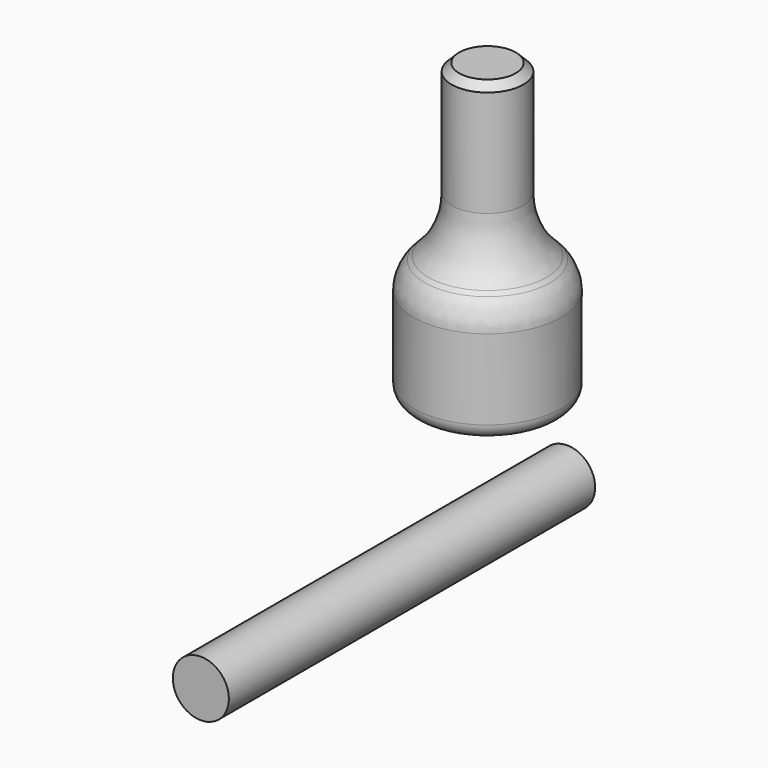
from build123d import *

# Parameters (mm, degrees)
F0_R     = 49.4600164877
F1_DEPTH = 100.0064834952
F2_SIZE  = 25.4
F3_R     = 25.559552511
F4_DEPTH = 98.5232293606
F5_R     = 52.9991248182
F6_SIZE  = 5.08
F7_R     = 10.16
F8_R     = 18.8176208756
F9_DEPTH = 307.4226379395


with BuildPart() as f1:
    # F0 (on Top) → F1 (new body)
    with BuildSketch(Plane.XY):
        with Locations((0, 7.3633268476)):
            Circle(F0_R)
    extrude(amount=F1_DEPTH)

    # F2
    f2_edges = [f1.edges().sort_by_distance(p)[0] for p in [
        (-49.460016, 7.363327, 100.006483),
    ]]
    chamfer(f2_edges, length=F2_SIZE)

    # F3
    f3_edges = [f1.edges().sort_by_distance(p)[0] for p in [
        (-49.460016, 7.363327, 74.606483),
    ]]
    fillet(f3_edges, radius=F3_R)

    # F4 (add): a face of the model
    f4_faces = [f1.faces().sort_by_distance(p)[0] for p in [
        (0, 7.3633268476, 100.0064834952),
    ]]
    extrude(f4_faces, amount=F4_DEPTH)

    # F5
    f5_edges = [f1.edges().sort_by_distance(p)[0] for p in [
        (-24.060016, 7.363327, 100.006483),
    ]]
    fillet(f5_edges, radius=F5_R)

    # F6
    f6_edges = [f1.edges().sort_by_distance(p)[0] for p in [
        (-24.060016, 7.363327, 198.529713),
    ]]
    chamfer(f6_edges, length=F6_SIZE)

    # F7
    f7_edges = [f1.edges().sort_by_distance(p)[0] for p in [
        (-49.460016, 7.363327, 0),
    ]]
    fillet(f7_edges, radius=F7_R)


with BuildPart() as f9:
    # F8 (on Front) → F9 (new body)
    with BuildSketch(Plane.XZ):
        with Locations((59.3541711569, -24.0539014339)):
            Circle(F8_R)
    extrude(amount=F9_DEPTH)


solid = Compound([f1.part, f9.part])
